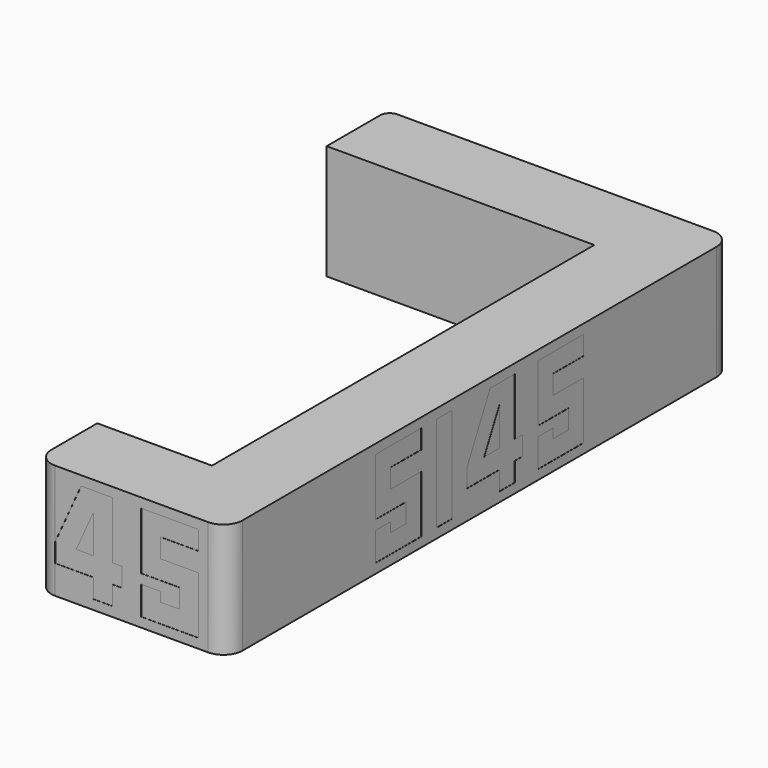
from build123d import *

# Parameters (mm, degrees)
F1_DEPTH   = 19.05
F2_R       = 3.175
F4_DEPTH   = 3.175
F5_W       = 3.175
F5_H       = 15.875
F6_DEPTH   = 3.175
F7_DEPTH   = 3.1496
F6_FACE_W  = 3.175
F6_FACE_H  = 15.875
F8_DEPTH   = 3.1496
F9_R       = 1.5875
F10_W      = 3.175
F10_H      = 15.875
F11_DEPTH  = 3.175
F11_FACE_W = 3.175
F11_FACE_H = 15.875
F12_DEPTH  = 3.1496


with BuildPart() as f1:
    # F0 (on Top) → F1 (new body)
    with BuildSketch(Plane.XY):
        Polygon((-261.384131, 292.143204), (-261.384131, 279.443204), (-216.934131, 279.443204), (-216.934131, 200.068204), (-235.984131, 200.068204), (-235.984131, 187.368204), (-204.234131, 187.368204), (-204.234131, 292.143204), align=None)
    extrude(amount=F1_DEPTH)

    # F2
    f2_edges = [f1.edges().sort_by_distance(p)[0] for p in [
        (-204.234131, 187.368204, 9.525),
        (-235.984131, 187.368204, 9.525),
        (-204.234131, 292.143204, 9.525),
    ]]
    fillet(f2_edges, radius=F2_R)

    # F3 (on face) → F4 (cut)
    with BuildSketch(Plane.XZ.offset(-187.368204)):
        Polygon((-228.509391, 17.4625), (-232.809131, 7.9375), (-232.809131, 4.7625), (-226.459131, 4.7625), (-226.459131, 1.5875), (-223.284131, 1.5875), (-223.284131, 4.7625), (-221.696631, 4.7625), (-221.696631, 7.9375), (-223.284131, 7.9375), (-223.284131, 17.4625), align=None)
        Polygon((-226.459131, 14.2875), (-226.459131, 7.9375), (-229.325624, 7.9375), align=None, mode=Mode.SUBTRACT)
        Polygon((-208.996631, 14.2875), (-208.996631, 17.4625), (-218.521631, 17.4625), (-218.521631, 7.9375), (-212.171631, 7.9375), (-212.171631, 4.7625), (-215.346631, 4.7625), (-215.346631, 6.35), (-218.521631, 6.35), (-218.521631, 1.5875), (-208.996631, 1.5875), (-208.996631, 11.1125), (-215.346631, 11.1125), (-215.346631, 14.2875), align=None)
    extrude(amount=-F4_DEPTH, mode=Mode.SUBTRACT)

    # F5 (on face) → F6 (cut)
    with BuildSketch(Plane.YZ.offset(-204.234131)):
        Polygon((227.662075, 14.2875), (227.662075, 17.4625), (218.137075, 17.4625), (218.137075, 7.9375), (224.487075, 7.9375), (224.487075, 4.7625), (221.312075, 4.7625), (221.312075, 6.35), (218.137075, 6.35), (218.137075, 1.5875), (227.662075, 1.5875), (227.662075, 11.1125), (221.312075, 11.1125), (221.312075, 14.2875), align=None)
        with Locations((232.424575, 9.525)):
            Rectangle(F5_W, F5_H)
        Polygon((247.086833, 7.9375), (247.086833, 17.4625), (241.949575, 17.4625), (237.187075, 7.9375), (237.187075, 4.7625), (243.911833, 4.7625), (243.911833, 1.5875), (247.086833, 1.5875), (247.086833, 4.7625), (248.674333, 4.7625), (248.674333, 7.9375), align=None)
        Polygon((243.911833, 14.2875), (243.911833, 7.9375), (240.736833, 7.9375), align=None, mode=Mode.SUBTRACT)
        Polygon((261.374333, 14.2875), (261.374333, 17.4625), (251.849333, 17.4625), (251.849333, 7.9375), (258.199333, 7.9375), (258.199333, 4.7625), (255.024333, 4.7625), (255.024333, 6.35), (251.849333, 6.35), (251.849333, 1.5875), (261.374333, 1.5875), (261.374333, 11.1125), (255.024333, 11.1125), (255.024333, 14.2875), align=None)
    extrude(amount=-F6_DEPTH, mode=Mode.SUBTRACT)

    # F9
    f9_edges = [f1.edges().sort_by_distance(p)[0] for p in [
        (-261.384131, 292.143204, 9.525),
    ]]
    fillet(f9_edges, radius=F9_R)

    # F10 (on face) → F11 (cut)
    with BuildSketch(Plane(origin=(0, 292.143204, 0), x_dir=(-1, 0, 0), z_dir=(0, 1, 0))):
        Polygon((253.446631, 14.2875), (253.446631, 17.4625), (243.921631, 17.4625), (243.921631, 7.9375), (250.271631, 7.9375), (250.271631, 4.7625), (247.096631, 4.7625), (247.096631, 6.35), (243.921631, 6.35), (243.921631, 1.5875), (253.446631, 1.5875), (253.446631, 11.1125), (247.096631, 11.1125), (247.096631, 14.2875), align=None)
        with Locations((258.209131, 9.525)):
            Rectangle(F10_W, F10_H)
    extrude(amount=-F11_DEPTH, mode=Mode.SUBTRACT)


with BuildPart() as f7:
    # F4_face (on face) → F7 (new body)
    with BuildSketch(Plane(origin=(-226.897121, 190.543204, 9.615891), x_dir=(1, 0, 0), z_dir=(0, -1, 0))):
        Polygon((-1.612271, 7.846609), (-5.91201, -1.678391), (-5.91201, -4.853391), (0.43799, -4.853391), (0.43799, -8.028391), (3.61299, -8.028391), (3.61299, -4.853391), (5.20049, -4.853391), (5.20049, -1.678391), (3.61299, -1.678391), (3.61299, 7.846609), align=None)
        Polygon((0.43799, 4.671609), (0.43799, -1.678391), (-2.428503, -1.678391), align=None, mode=Mode.SUBTRACT)
        Polygon((11.55049, 1.496609), (11.55049, 4.671609), (17.90049, 4.671609), (17.90049, 7.846609), (8.37549, 7.846609), (8.37549, -1.678391), (14.72549, -1.678391), (14.72549, -4.853391), (11.55049, -4.853391), (11.55049, -3.265891), (8.37549, -3.265891), (8.37549, -8.028391), (17.90049, -8.028391), (17.90049, 1.496609), align=None)
    extrude(amount=F7_DEPTH)


with BuildPart() as f8:
    # F6_face (on face) → F8 (new body)
    with BuildSketch(Plane(origin=(-207.409131, 222.761532, 9.352446), x_dir=(0, 1, 0), z_dir=(1, 0, 0))):
        Polygon((-1.449457, 1.760054), (-1.449457, 4.935054), (4.900543, 4.935054), (4.900543, 8.110054), (-4.624457, 8.110054), (-4.624457, -1.414946), (1.725543, -1.414946), (1.725543, -4.589946), (-1.449457, -4.589946), (-1.449457, -3.002446), (-4.624457, -3.002446), (-4.624457, -7.764946), (4.900543, -7.764946), (4.900543, 1.760054), align=None)
        with Locations((9.663043, 0.172554)):
            Rectangle(F6_FACE_W, F6_FACE_H)
        Polygon((24.325301, -1.414946), (24.325301, 8.110054), (19.188043, 8.110054), (14.425543, -1.414946), (14.425543, -4.589946), (21.150301, -4.589946), (21.150301, -7.764946), (24.325301, -7.764946), (24.325301, -4.589946), (25.912801, -4.589946), (25.912801, -1.414946), align=None)
        Polygon((21.150301, 4.935054), (21.150301, -1.414946), (17.975301, -1.414946), align=None, mode=Mode.SUBTRACT)
        Polygon((32.262801, 1.760054), (32.262801, 4.935054), (38.612801, 4.935054), (38.612801, 8.110054), (29.087801, 8.110054), (29.087801, -1.414946), (35.437801, -1.414946), (35.437801, -4.589946), (32.262801, -4.589946), (32.262801, -3.002446), (29.087801, -3.002446), (29.087801, -7.764946), (38.612801, -7.764946), (38.612801, 1.760054), align=None)
    extrude(amount=F8_DEPTH)


with BuildPart() as f12:
    # F11_face (on face) → F12 (new body)
    with BuildSketch(Plane(origin=(-248.546087, 288.968204, 9.352446), x_dir=(-1, 0, 0), z_dir=(0, 1, 0))):
        Polygon((-1.449457, 1.760054), (-1.449457, 4.935054), (4.900543, 4.935054), (4.900543, 8.110054), (-4.624457, 8.110054), (-4.624457, -1.414946), (1.725543, -1.414946), (1.725543, -4.589946), (-1.449457, -4.589946), (-1.449457, -3.002446), (-4.624457, -3.002446), (-4.624457, -7.764946), (4.900543, -7.764946), (4.900543, 1.760054), align=None)
        with Locations((9.663043, 0.172554)):
            Rectangle(F11_FACE_W, F11_FACE_H)
    extrude(amount=F12_DEPTH)


solid = Compound([f1.part, f7.part, f8.part, f12.part])
